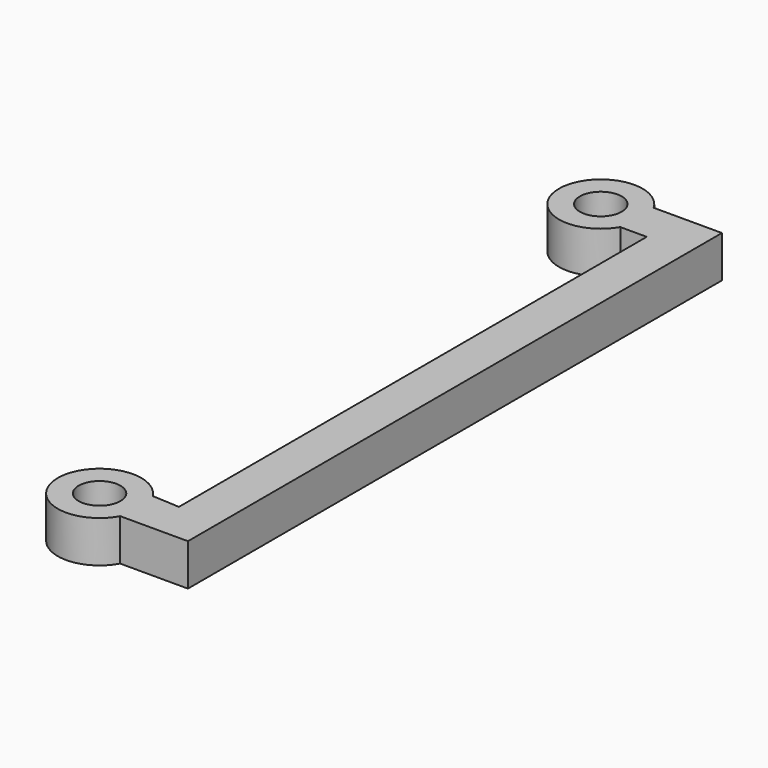
from build123d import *

# Parameters (mm, degrees)
SKETCH_R      = 10
EXTRUDE_DEPTH = 20


with BuildPart() as part:
    # Sketch → Extrude (new body)
    with BuildSketch(Plane.XY):
        with BuildLine():
            Line((11.677619, 0.722876), (24.795086, 0))
            Line((24.795086, 280), (24.795086, 0))
            Line((24.795086, 280), (12.115594, 280))
            ThreePointArc((12.115594, 300), (-25.204914, 290), (12.115594, 280))
            Line((12.115594, 300), (44.795086, 300))
            Line((44.795086, 300), (44.795086, -19.596431))
            Line((44.795086, -19.596431), (12.342408, -19.596431))
            ThreePointArc((11.677619, 0.722876), (-25.194218, -10.653992), (12.342408, -19.596431))
        make_face()
        with Locations((-5.204914, -10)):
            Circle(SKETCH_R, mode=Mode.SUBTRACT)
        with Locations((-5.204914, 290)):
            Circle(SKETCH_R, mode=Mode.SUBTRACT)
    extrude(amount=EXTRUDE_DEPTH)


solid = part.part
